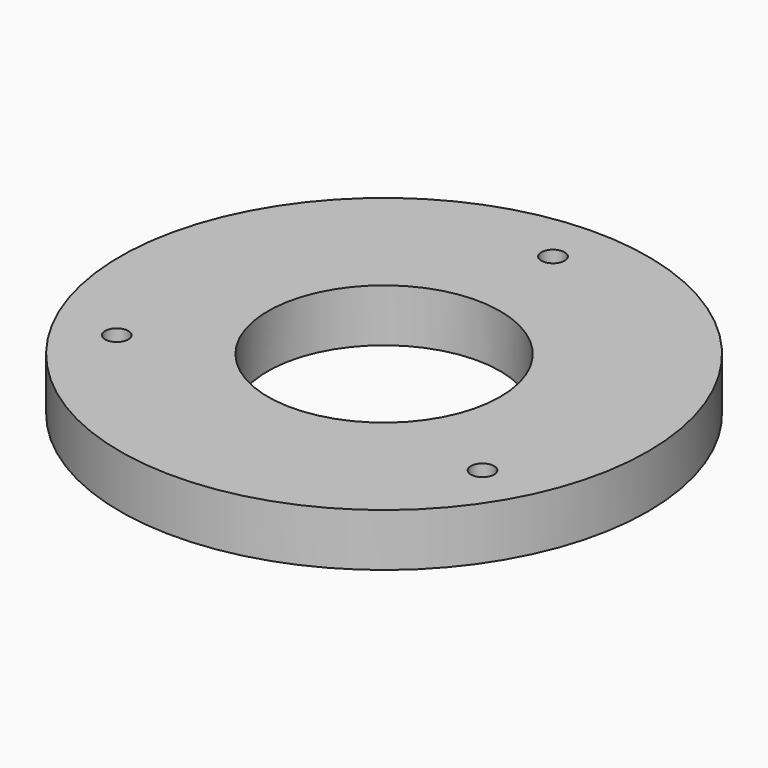
from build123d import *

# Parameters (mm, degrees)
F0_R     = 250
F0_R_2   = 110
F1_DEPTH = 50
F2_R     = 11
F3_DEPTH = 25


with BuildPart() as f1:
    # F0 (on Top) → F1 (new body)
    with BuildSketch(Plane.XY):
        Circle(F0_R)
        Circle(F0_R_2, mode=Mode.SUBTRACT)
    extrude(amount=F1_DEPTH)

    # F2 (on face) → F3 (cut)
    with BuildSketch(Plane.XY.offset(50)):
        with Locations((0, 200)):
            Circle(F2_R)
        with Locations((-173.205081, -100)):
            Circle(F2_R)
        with Locations((173.205081, -100)):
            Circle(F2_R)
    extrude(amount=-F3_DEPTH, mode=Mode.SUBTRACT)


solid = f1.part
